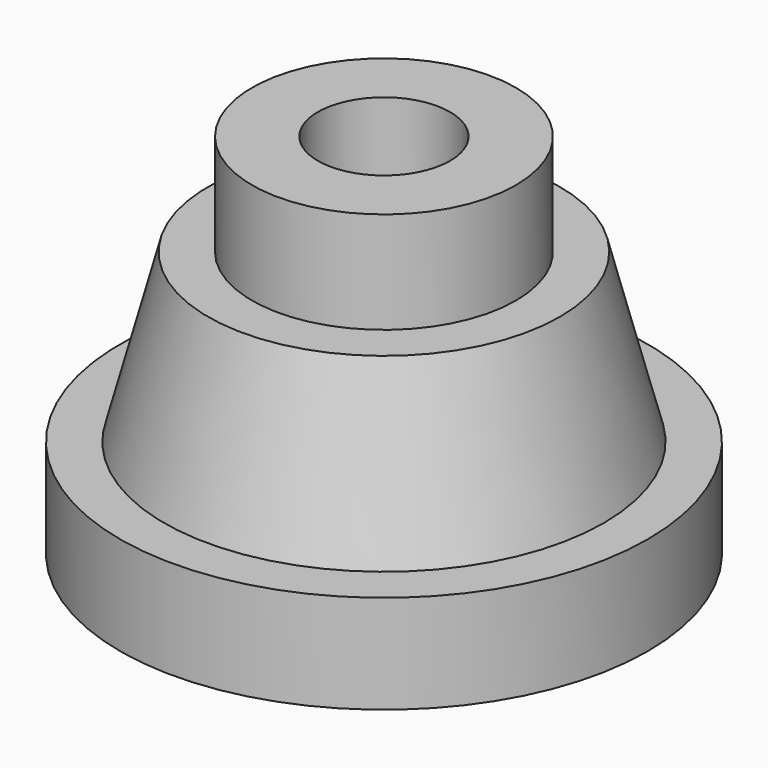
from build123d import *

# Parameters (mm, degrees)
F2_R     = 9.545839
F3_DEPTH = 53.023515


with BuildPart() as f1:
    # F0 (on Front) → F1 (revolve)
    with BuildSketch(Plane.XZ):
        Polygon((-6.35, 23.399759), (-25.4, 23.399759), (-25.4, -29.622756), (12.7, -29.622756), (12.7, -15.398756), (6.35, -15.398756), (0, 8.731253), (-6.35, 8.731253), align=None)
    revolve(axis=Axis((-25.4, 0, -3.111498), (0, 0, -1)))

    # F2 (on face) → F3 (cut, through all)
    with BuildSketch(Plane.XY.offset(23.399759)):
        with Locations((-25.4, 0)):
            Circle(F2_R)
    extrude(amount=-F3_DEPTH, mode=Mode.SUBTRACT)


solid = f1.part
